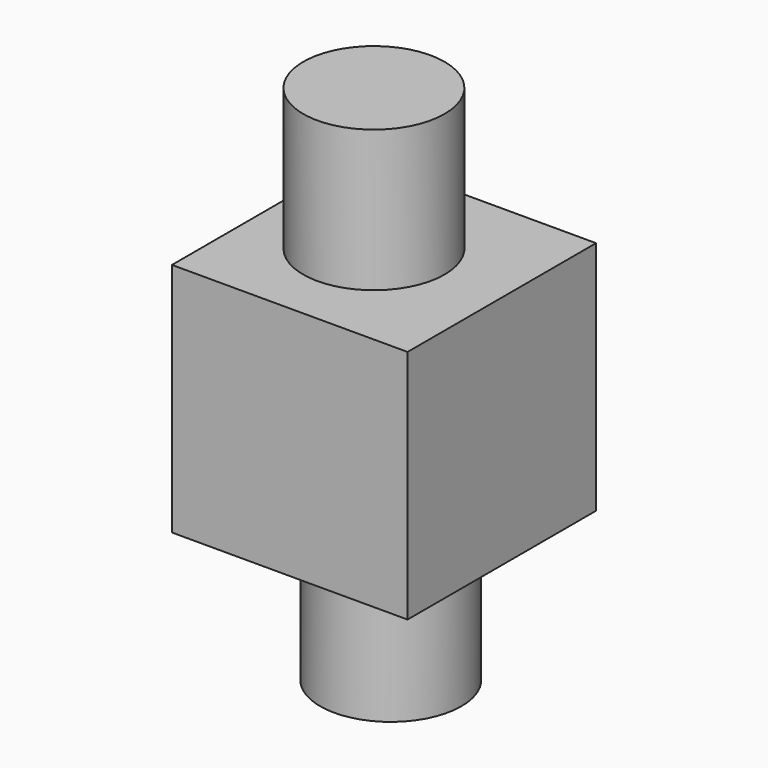
from build123d import *

# Parameters (mm, degrees)
F0_W     = 25
F0_H     = 25
F1_DEPTH = 25
F2_R     = 7.5
F3_DEPTH = 15
F4_R     = 7.5
F5_DEPTH = 15


with BuildPart() as f1:
    # F0 (on Front) → F1 (new body)
    with BuildSketch(Plane.XZ):
        with Locations((12.5, 12.5)):
            Rectangle(F0_W, F0_H)
    extrude(amount=F1_DEPTH)

    # F2 (on Top) → F3 (join)
    with BuildSketch(Plane.XY):
        with Locations((12.704089, -11.857167)):
            Circle(F2_R)
    extrude(amount=-F3_DEPTH)

    # F4 (on face) → F5 (join)
    with BuildSketch(Plane.XY.offset(25)):
        with Locations((11.222606, -12.241699)):
            Circle(F4_R)
    extrude(amount=F5_DEPTH)


solid = f1.part
